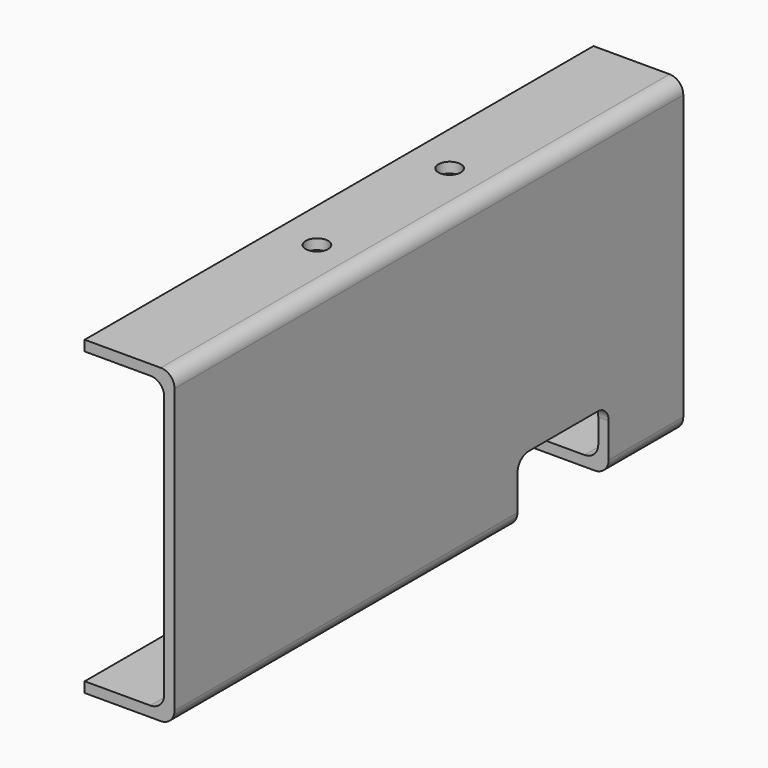
from build123d import *

# Parameters (mm, degrees)
F1_DEPTH = 292.1
F3_DEPTH = 41.276
F4_R     = 5.159375
F5_DEPTH = 4.7625
F6_R     = 5.159375
F7_DEPTH = 4.7625


with BuildPart() as f1:
    # F0 (on Front) → F1 (new body)
    with BuildSketch(Plane.XZ):
        with BuildLine():
            Line((0, 4.7625), (0, 0))
            Line((0, 0), (34.925, 0))
            ThreePointArc((34.925, 0), (39.415128, 1.859872), (41.275, 6.35))
            Line((41.275, 6.35), (41.275, 136.525))
            ThreePointArc((41.275, 136.525), (39.415128, 141.015128), (34.925, 142.875))
            Line((34.925, 142.875), (0, 142.875))
            Line((0, 142.875), (0, 138.1125))
            Line((0, 138.1125), (30.1625, 138.1125))
            ThreePointArc((30.1625, 138.1125), (34.652628, 136.252628), (36.5125, 131.7625))
            Line((36.5125, 131.7625), (36.5125, 11.1125))
            ThreePointArc((36.5125, 11.1125), (34.652628, 6.622372), (30.1625, 4.7625))
            Line((30.1625, 4.7625), (0, 4.7625))
        make_face()
    extrude(amount=F1_DEPTH)

    # F2 (on face) → F3 (cut, through all)
    with BuildSketch(Plane.YZ.offset(41.275)):
        with BuildLine():
            Line((-95.25, 22.225), (-95.25, 0))
            Line((-95.25, 0), (-42.8625, 0))
            Line((-42.8625, 0), (-42.8625, 22.225))
            ThreePointArc((-42.8625, 22.225), (-44.722372, 26.715128), (-49.2125, 28.575))
            Line((-49.2125, 28.575), (-88.9, 28.575))
            ThreePointArc((-88.9, 28.575), (-93.390128, 26.715128), (-95.25, 22.225))
        make_face()
    extrude(amount=-F3_DEPTH, mode=Mode.SUBTRACT)

    # F4 (on face) → F5 (cut, through all)
    with BuildSketch(Plane.XY.offset(142.875)):
        with Locations((19.05, -106.3752)):
            Circle(F4_R)
        with Locations((19.05, -182.5752)):
            Circle(F4_R)
    extrude(amount=-F5_DEPTH, mode=Mode.SUBTRACT)

    # F6 (on face) → F7 (cut, through all)
    with BuildSketch(Plane(origin=(0, 0, 0), x_dir=(1, 0, 0), z_dir=(0, 0, -1))):
        with Locations((19.05, 119.0752)):
            Circle(F6_R)
        with Locations((19.05, 195.2752)):
            Circle(F6_R)
    extrude(amount=-F7_DEPTH, mode=Mode.SUBTRACT)


solid = f1.part
